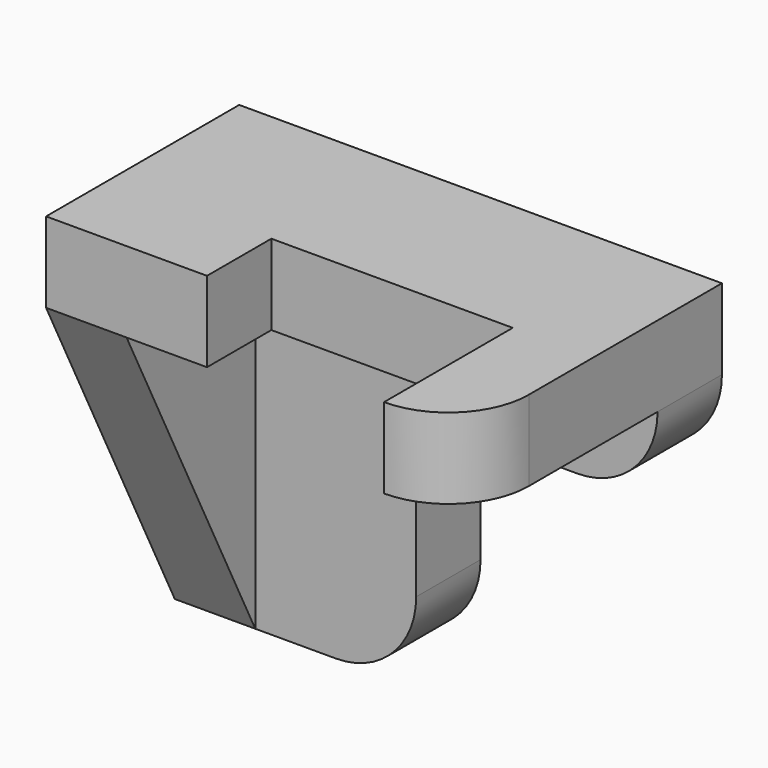
from build123d import *

# Parameters (mm, degrees)
F1_DEPTH  = 254
F2_W      = 254
F2_H      = 1016
F3_DEPTH  = 508
F5_DEPTH  = 309.88
F7_DEPTH  = 508
F9_DEPTH  = 254
F10_W     = 254
F10_H     = 254
F11_DEPTH = 254
F13_DEPTH = 254
F15_DEPTH = 254
F17_DEPTH = 254


with BuildPart() as f1:
    # F0 (on Front) → F1 (new body)
    with BuildSketch(Plane.XZ):
        Polygon((1524, 508), (0, 508), (0, -762), (762, -762), (762, 0), (1524, 0), align=None)
    extrude(amount=F1_DEPTH)

    # F2 (on face) → F3 (join)
    with BuildSketch(Plane.XZ.offset(254)):
        with Locations((127, -254)):
            Rectangle(F2_W, F2_H)
    extrude(amount=F3_DEPTH)

    # F4 (on face) → F5 (cut)
    with BuildSketch(Plane(origin=(0, 0, 0), x_dir=(0, -1, 0), z_dir=(-1, 0, 0))):
        Polygon((762, 254), (254, -762), (508, -762), (762, -762), align=None)
    extrude(amount=-F5_DEPTH, mode=Mode.SUBTRACT)

    # F6 (on face) → F7 (join)
    with BuildSketch(Plane.XZ.offset(254)):
        Polygon((1524, 508), (0, 508), (0, 254), (254, 254), (1524, 254), align=None)
    extrude(amount=F7_DEPTH)

    # F8 (on face) → F9 (cut)
    with BuildSketch(Plane.XZ.offset(762)):
        Polygon((762, 508), (508, 508), (508, 254), (1270, 254), (1270, 508), (1016, 508), align=None)
    extrude(amount=-F9_DEPTH, mode=Mode.SUBTRACT)

    # F10 (on face) → F11 (join)
    with BuildSketch(Plane.XZ.offset(762)):
        with Locations((1397, 381)):
            Rectangle(F10_W, F10_H)
    extrude(amount=F11_DEPTH)

    # F12 (on face) → F13 (cut)
    with BuildSketch(Plane.XZ.offset(254)):
        with BuildLine():
            ThreePointArc((762, -508), (687.605122, -687.605122), (508, -762))
            Line((508, -762), (762, -762))
            Line((762, -762), (762, -508))
        make_face()
    extrude(amount=-F13_DEPTH, mode=Mode.SUBTRACT)

    # F14 (on face) → F15 (cut)
    with BuildSketch(Plane.XZ.offset(254)):
        with BuildLine():
            Line((1524, 0), (1524, 254))
            ThreePointArc((1524, 254), (1449.605122, 74.394878), (1270, 0))
            Line((1270, 0), (1524, 0))
        make_face()
    extrude(amount=-F15_DEPTH, mode=Mode.SUBTRACT)

    # F16 (on face) → F17 (cut)
    with BuildSketch(Plane(origin=(0, 0, 254), x_dir=(1, 0, 0), z_dir=(0, 0, -1))):
        with BuildLine():
            Line((1524, 1016), (1270, 1016))
            ThreePointArc((1270, 1016), (1449.605122, 941.605122), (1524, 762))
            Line((1524, 762), (1524, 1016))
        make_face()
    extrude(amount=-F17_DEPTH, mode=Mode.SUBTRACT)


solid = f1.part
